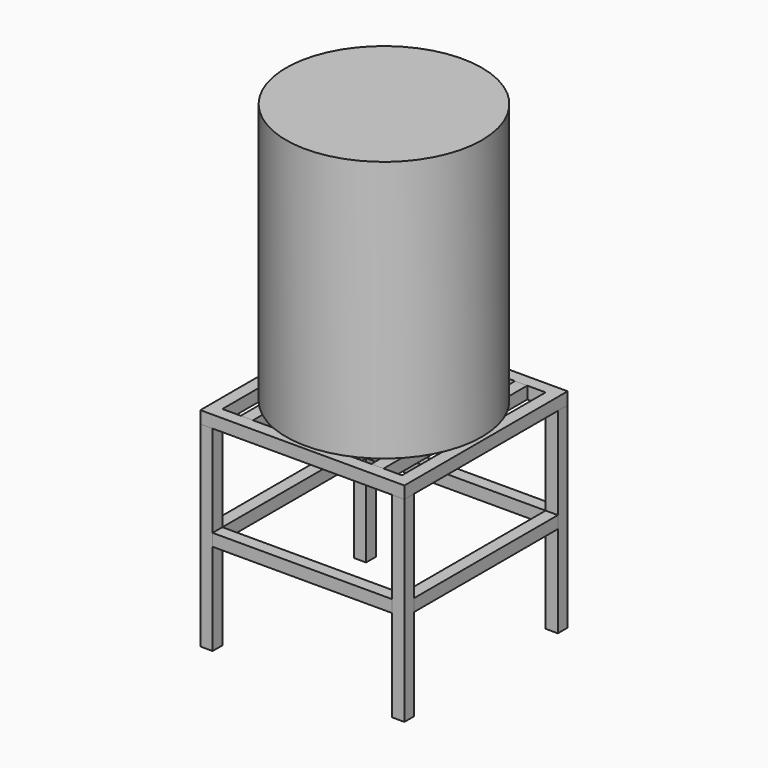
from build123d import *

# Parameters (mm, degrees)
F2_W      = 38.1
F2_H      = 38.1
F7_W      = 38.1
F7_H      = 38.1
F14_W     = 38.1
F14_H     = 38.1
F19_W     = 38.1
F19_H     = 38.1
F23_W     = 38.1
F23_H     = 38.1
F26_R     = 304.8
F27_DEPTH = 812.8


with BuildPart() as f3:
    # F3: sweep along a path in F0
    with BuildLine(Plane.XY) as f3_path:
        Line((298.45, -298.45), (-298.45, -298.45))
        Line((-298.45, -298.45), (-298.45, 298.45))
        Line((-298.45, 298.45), (298.45, 298.45))
        Line((298.45, 298.45), (298.45, -298.45))
    # F2 (on line) → F3 (sweep)
    with BuildSketch(Plane(origin=(298.45, 0, 0), x_dir=(0, -1, 0), z_dir=(-1, 0, 0))):
        with Locations((298.45, 0)):
            Rectangle(F2_W, F2_H)
    sweep(path=f3_path.line, transition=Transition.RIGHT)


with BuildPart() as f8:
    # F8: sweep along a path in F5
    with BuildLine(Plane.XZ.offset(298.45)) as f8_path:
        Line((-298.45, -19.05), (-298.45, -628.65))
    # F7 (on line) → F8 (sweep)
    with BuildSketch(Plane(origin=(0, 0, -628.65), x_dir=(1, 0, 0), z_dir=(0, 0, -1))):
        with Locations((-298.45, 298.45)):
            Rectangle(F7_W, F7_H)
    sweep(path=f8_path.line)


with BuildPart() as f11_1:
    # F11: instance of F8
    add(f8.part.mirror(Plane.YZ))


with BuildPart() as f12_1:
    # F12: instance of F8
    add(f8.part.mirror(Plane.XZ))


with BuildPart() as f12_2:
    # F12: instance of F11_1
    add(f11_1.part.mirror(Plane.XZ))


with BuildPart() as f15:
    # F15: sweep along a path in F13
    with BuildLine(Plane.XZ.offset(298.45)) as f15_path:
        Line((-279.4, -323.85), (279.4, -323.85))
    # F14 (on face) → F15 (sweep)
    with BuildSketch(Plane(origin=(279.4, 0, 0), x_dir=(0, -1, 0), z_dir=(-1, 0, 0))):
        with Locations((298.45, -323.85)):
            Rectangle(F14_W, F14_H)
    sweep(path=f15_path.line)


with BuildPart() as f16_1:
    # F16: instance of F15
    add(f15.part.mirror(Plane.XZ))


with BuildPart() as f20:
    # F20: sweep along a path in F18
    with BuildLine(Plane.YZ.offset(298.45)) as f20_path:
        Line((-279.4, -323.85), (279.4, -323.85))
    # F19 (on face) → F20 (sweep)
    with BuildSketch(Plane(origin=(0, -279.4, 0), x_dir=(-1, 0, 0), z_dir=(0, 1, 0))):
        with Locations((-298.45, -323.85)):
            Rectangle(F19_W, F19_H)
    sweep(path=f20_path.line)


with BuildPart() as f21_1:
    # F21: instance of F20
    add(f20.part.mirror(Plane.YZ))


with BuildPart() as f24:
    # F24: sweep along a path in F22
    with BuildLine(Plane.XY) as f24_path:
        Line((-203.2, 279.4), (-203.2, -279.4))
    # F23 (on face) → F24 (sweep)
    with BuildSketch(Plane.XZ.offset(-279.4)):
        with Locations((-203.2, 0)):
            Rectangle(F23_W, F23_H)
    sweep(path=f24_path.line)


with BuildPart() as f25_1:
    # F25: instance of F24
    add(f24.part.mirror(Plane.YZ))


with BuildPart() as f27:
    # F26 (on face) → F27 (new body)
    with BuildSketch(Plane.XY.offset(19.05)):
        Circle(F26_R)
    extrude(amount=F27_DEPTH)


solid = Compound([f3.part, f8.part, f11_1.part, f12_1.part, f12_2.part, f15.part, f16_1.part, f20.part, f21_1.part, f24.part, f25_1.part, f27.part])
